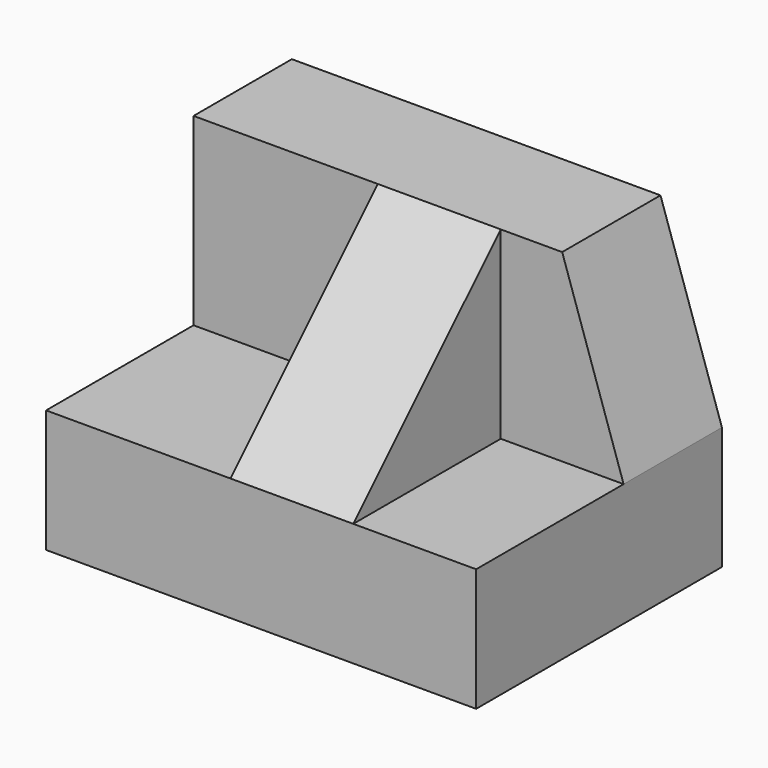
from build123d import *

# Parameters (mm, degrees)
F0_W     = 44.45
F0_H     = 12.7
F1_DEPTH = 31.75
F2_W     = 44.45
F2_H     = 12.7
F3_DEPTH = 19.05
F4_W     = 12.7
F4_H     = 19.05
F5_DEPTH = 19.05
F7_DEPTH = 25.4
F9_DEPTH = 25.4


with BuildPart() as f1:
    # F0 (on Front) → F1 (new body)
    with BuildSketch(Plane.XZ):
        with Locations((-22.225, 6.35)):
            Rectangle(F0_W, F0_H)
    extrude(amount=F1_DEPTH)

    # F2 (on face) → F3 (join)
    with BuildSketch(Plane.XY.offset(12.7)):
        with Locations((-22.225, -6.35)):
            Rectangle(F2_W, F2_H)
    extrude(amount=F3_DEPTH)

    # F4 (on face) → F5 (join)
    with BuildSketch(Plane.XZ.offset(12.7)):
        with Locations((-19.05, 22.225)):
            Rectangle(F4_W, F4_H)
    extrude(amount=F5_DEPTH)

    # F6 (on face) → F7 (cut)
    with BuildSketch(Plane.YZ.offset(-12.7)):
        Polygon((-31.75, 31.75), (-31.75, 12.7), (-12.7, 31.75), align=None)
    extrude(amount=-F7_DEPTH, mode=Mode.SUBTRACT)

    # F8 (on face) → F9 (cut)
    with BuildSketch(Plane.XZ.offset(12.7)):
        Polygon((0, 31.75), (-6.35, 31.75), (0, 12.7), align=None)
    extrude(amount=-F9_DEPTH, mode=Mode.SUBTRACT)


solid = f1.part
